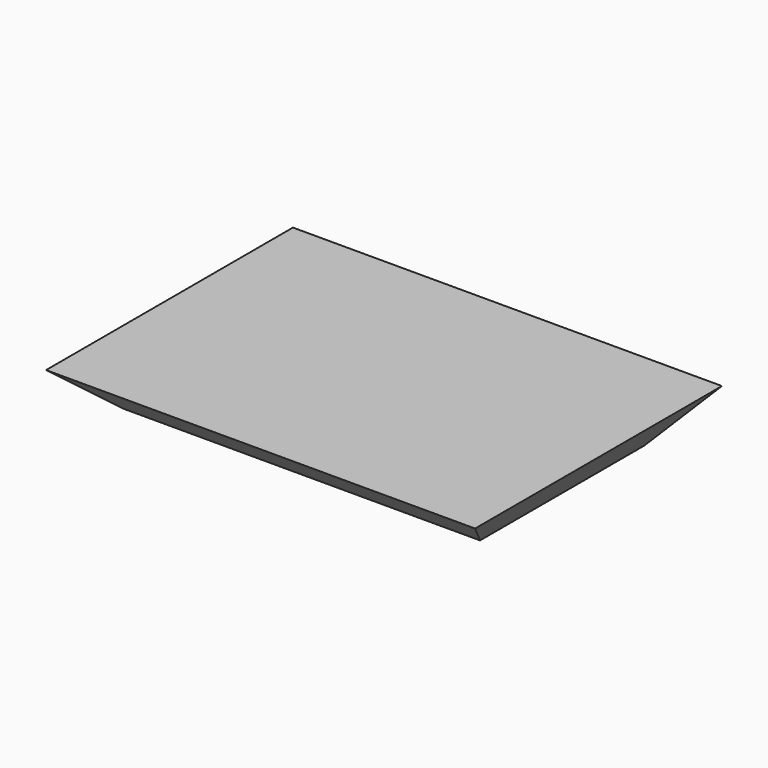
from build123d import *

# Parameters (mm, degrees)
F1_DEPTH = 16.4
F3_DEPTH = 12.5
F4_R     = 2.575
F5_DEPTH = 4


with BuildPart() as f1:
    # F0 (on Front) → F1 (new body)
    with BuildSketch(Plane.XZ):
        Polygon((-9.470071, 0), (0, 0), (9.470071, 0), (11.4, 2.3), (0, 2.3), (-11.4, 2.3), align=None)
    extrude(amount=F1_DEPTH)

    # F2 (on Right) → F3 (cut, symmetric)
    with BuildSketch(Plane.YZ):
        Polygon((-2.741004, 0), (0, 0), (0, 2.299975), align=None)
        Polygon((-13.658996, 0), (-16.4, 2.299975), (-16.4, 0), align=None)
    extrude(amount=F3_DEPTH, both=True, mode=Mode.SUBTRACT)

    # F4 (on face) → F5 (join)
    with BuildSketch(Plane.XY.offset(2.3)):
        with Locations((0, -8.2)):
            Circle(F4_R)
    extrude(amount=-F5_DEPTH)


solid = f1.part
